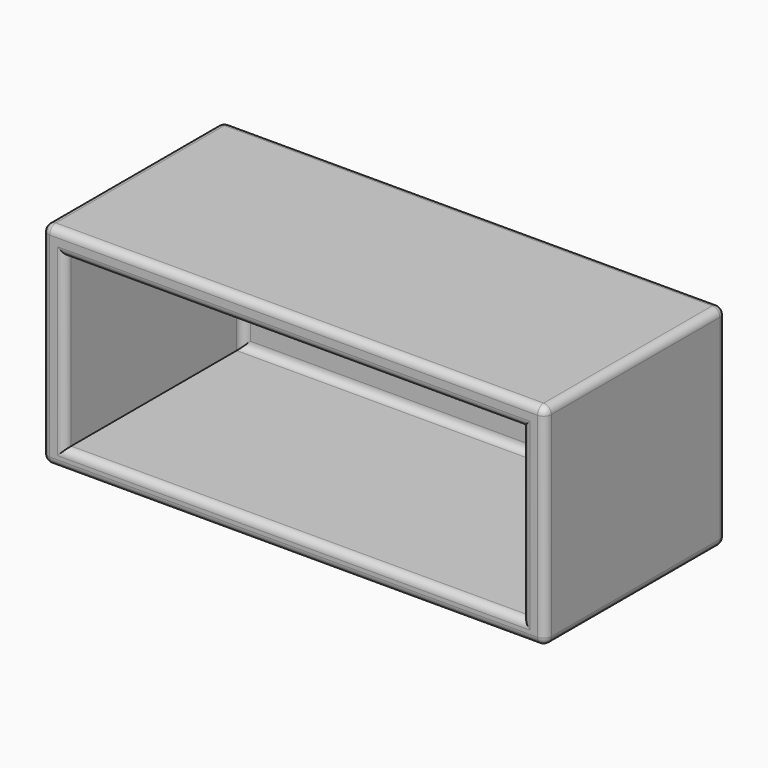
from build123d import *

# Parameters (mm, degrees)
F0_W     = 308.2244545221
F0_H     = 149.8168706894
F1_DEPTH = 127
F3_T     = -2.54
F2_W     = 308.2244545221
F2_H     = 149.8168706894
F4_DEPTH = 12.7
F5_DEPTH = 12.7
F6_DEPTH = 12.7
F7_DEPTH = 12.7
F8_R     = 5.08
F9_R     = 5.08
F10_R    = 5.08
F11_R    = 5.08
F12_R    = 5.08


with BuildPart() as f1:
    # F0 (on Top) → F1 (new body)
    with BuildSketch(Plane.XY):
        with Locations((1.3804957271, -1.0464191437)):
            Rectangle(F0_W, F0_H)
    extrude(amount=F1_DEPTH)

    # F3
    f3_openings = [f1.faces().sort_by_distance(p)[0] for p in [
        (1.380496, -75.954854, 63.5),
    ]]
    offset(amount=F3_T, openings=f3_openings)

    # F2 (on face) → F4 (join)
    with BuildSketch(Plane.XY.offset(127)):
        with Locations((1.3804957271, -1.0464191437)):
            Rectangle(F2_W, F2_H)
    extrude(amount=F4_DEPTH)

    # F5 (add): a face of the model
    f5_faces = [f1.faces().sort_by_distance(p)[0] for p in [
        (155.4927229881, -1.0464191437, 69.85),
    ]]
    extrude(f5_faces, amount=F5_DEPTH)

    # F6 (add): a face of the model
    f6_faces = [f1.faces().sort_by_distance(p)[0] for p in [
        (-152.731731534, -1.0464191437, 69.85),
    ]]
    extrude(f6_faces, amount=F6_DEPTH)

    # F0 (on Top) → F7 (join)
    with BuildSketch(Plane.XY):
        with Locations((1.3804957271, -1.0464191437)):
            Rectangle(F0_W, F0_H)
    extrude(amount=F7_DEPTH)

    # F8
    f8_edges = [f1.edges().sort_by_distance(p)[0] for p in [
        (-165.431732, -1.046419, 139.7),
        (-165.431732, -1.046419, 0),
        (168.192723, -1.046419, 139.7),
        (168.192723, -1.046419, 0),
    ]]
    fillet(f8_edges, radius=F8_R)

    # F9
    f9_edges = [f1.edges().sort_by_distance(p)[0] for p in [
        (1.380496, 73.862016, 139.7),
    ]]
    fillet(f9_edges, radius=F9_R)

    # F10
    f10_edges = [f1.edges().sort_by_distance(p)[0] for p in [
        (-150.191732, -75.954854, 68.58),
        (1.380496, -75.954854, 12.7),
        (1.380496, -75.954854, 124.46),
        (152.952723, -75.954854, 68.58),
    ]]
    fillet(f10_edges, radius=F10_R)

    # F11
    f11_edges = [f1.edges().sort_by_distance(p)[0] for p in [
        (1.380496, -75.954854, 139.7),
    ]]
    fillet(f11_edges, radius=F11_R)

    # F12
    f12_edges = [f1.edges().sort_by_distance(p)[0] for p in [
        (1.380496, 71.322016, 12.7),
        (-150.191732, 71.322016, 68.58),
        (1.380496, 71.322016, 124.46),
        (152.952723, 71.322016, 68.58),
    ]]
    fillet(f12_edges, radius=F12_R)


solid = f1.part
